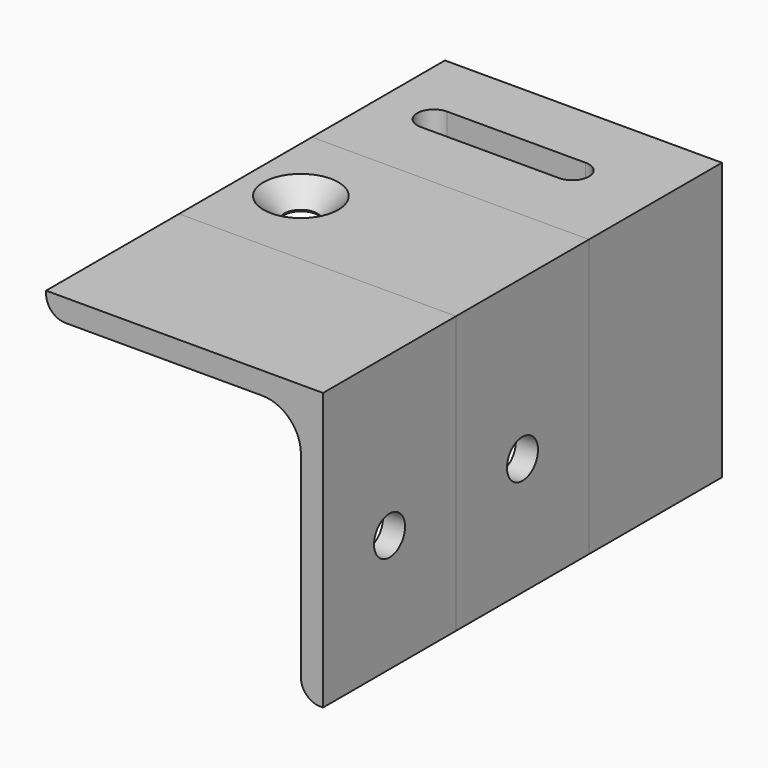
from build123d import *

# Parameters (mm, degrees)
F1_DEPTH       = 30
F3_D           = 7
F5_D           = 6
F5_CSINK_D     = 13.5
F5_CSINK_ANGLE = 90
F6_DEPTH       = 30
F8_DEPTH       = 50.001
F9_DEPTH       = 30
F11_D          = 7


with BuildPart() as f1:
    # F0 (on Front) → F1 (new body)
    with BuildSketch(Plane.XZ):
        with BuildLine():
            Line((0, -50), (0, 0))
            Line((0, 0), (-50, 0))
            Line((-50, 0), (-50, -0.5))
            ThreePointArc((-50, -0.5), (-48.9748737342, -2.9748737342), (-46.5, -4))
            Line((-46.5, -4), (-11, -4))
            ThreePointArc((-11, -4), (-6.0502525317, -6.0502525317), (-4, -11))
            Line((-4, -11), (-4, -46.5))
            ThreePointArc((-4, -46.5), (-2.9748737342, -48.9748737342), (-0.5, -50))
            Line((-0.5, -50), (0, -50))
        make_face()
    extrude(amount=F1_DEPTH)

    # F3 (through all)
    with Locations(Plane(origin=(-4, 0, 0), x_dir=(0, -1, 0), z_dir=(-1, 0, 0))):
        with Locations((15, -28.75)):
            Hole(F3_D / 2)

    # F5 (through all)
    with Locations(Plane.XY):
        with Locations((-40, -15)):
            CounterSinkHole(F5_D / 2, F5_CSINK_D / 2, counter_sink_angle=F5_CSINK_ANGLE)


with BuildPart() as f6:
    # F0 (on Front) → F6 (new body)
    with BuildSketch(Plane.XZ):
        with BuildLine():
            Line((0, -50), (0, 0))
            Line((0, 0), (-50, 0))
            Line((-50, 0), (-50, -0.5))
            ThreePointArc((-50, -0.5), (-48.9748737342, -2.9748737342), (-46.5, -4))
            Line((-46.5, -4), (-11, -4))
            ThreePointArc((-11, -4), (-6.0502525317, -6.0502525317), (-4, -11))
            Line((-4, -11), (-4, -46.5))
            ThreePointArc((-4, -46.5), (-2.9748737342, -48.9748737342), (-0.5, -50))
            Line((-0.5, -50), (0, -50))
        make_face()
    extrude(amount=-F6_DEPTH)

    # F7 (on face) → F8 (cut, through all)
    with BuildSketch(Plane.XY):
        with BuildLine():
            ThreePointArc((-40, 18), (-43, 15), (-40, 12))
            Line((-40, 12), (-15, 12))
            ThreePointArc((-15, 12), (-12, 15), (-15, 18))
            Line((-15, 18), (-40, 18))
        make_face()
    extrude(amount=-F8_DEPTH, mode=Mode.SUBTRACT)


with BuildPart() as f9:
    # F9 (new): a face of the model
    f9_faces = [f1.part.faces().sort_by_distance(p)[0] for p in [
        (-0.25, -30, -49.2928932188),
    ]]
    extrude(f9_faces, amount=F9_DEPTH)

    # F11 (through all)
    with Locations(Plane(origin=(-4, 0, 0), x_dir=(0, -1, 0), z_dir=(-1, 0, 0))):
        with Locations((45, -28.75)):
            Hole(F11_D / 2)


solid = Compound([f1.part, f6.part, f9.part])
